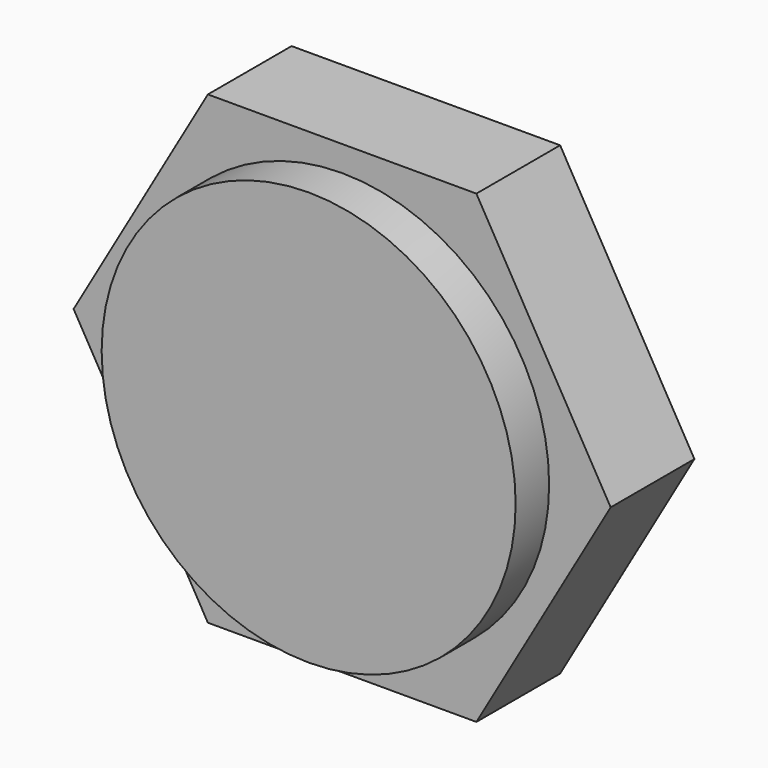
from build123d import *

# Parameters (mm, degrees)
F0_R     = 5
F1_DEPTH = 2.5
F2_R     = 4.944684
F3_DEPTH = 1


with BuildPart() as f1:
    # F0 (on Front) → F1 (new body)
    with BuildSketch(Plane.XZ):
        Polygon((-3.207181, -5.555), (3.207181, -5.555), (6.414361, 0), (3.207181, 5.555), (-3.207181, 5.555), (-6.414361, 0), align=None)
        Circle(F0_R, mode=Mode.SUBTRACT)
        Circle(F0_R)
    extrude(amount=F1_DEPTH)

    # F2 (on face) → F3 (join)
    with BuildSketch(Plane.XZ.offset(2.5)):
        Circle(F2_R)
    extrude(amount=F3_DEPTH)


solid = f1.part
